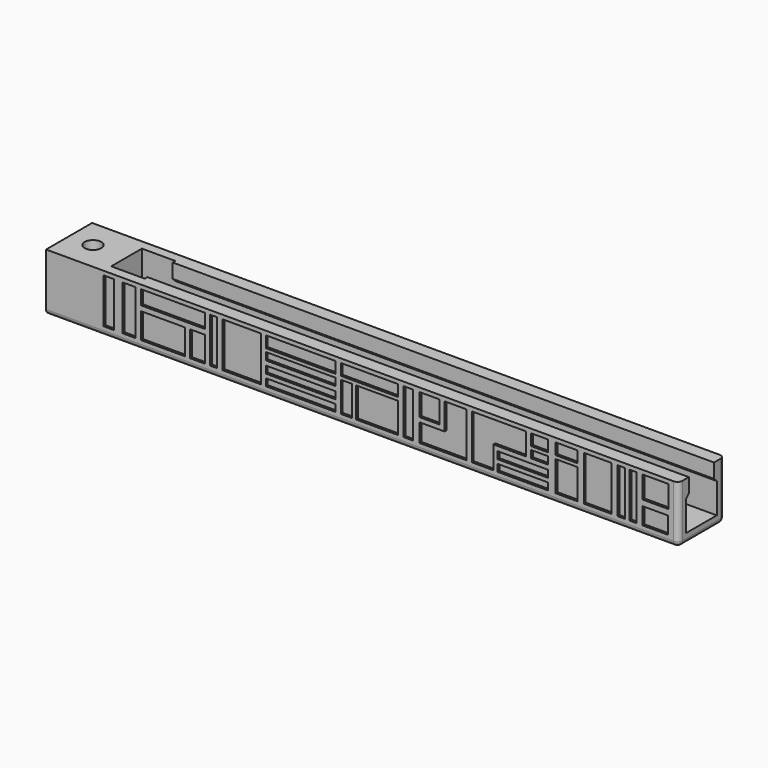
from build123d import *

# Parameters (mm, degrees)
F0_W      = 132
F0_H      = 12
F1_DEPTH  = 12
F3_DEPTH  = 120
F4_R      = 1
F5_R      = 1
F6_R      = 1.75
F7_DEPTH  = 25
F8_R      = 3.5
F9_DEPTH  = 3
F10_W     = 7
F10_H     = 8
F11_DEPTH = 25
F12_W     = 9.175333
F12_H     = 5.323609
F12_W_2   = 13.308094
F12_H_2   = 2.983174
F12_W_3   = 3.120669
F12_W_4   = 1.451817
F12_H_3   = 9.370118
F12_W_5   = 8.063871
F12_W_6   = 14.531644
F12_H_4   = 1.478815
F12_H_5   = 1.495601
F12_H_6   = 1.544423
F12_H_7   = 2.371952
F12_W_7   = 2.333373
F12_H_8   = 6.294652
F12_W_8   = 11.941966
F12_W_9   = 8.773454
F12_W_10  = 1.969859
F12_W_11  = 4.195839
F12_H_9   = 4.619889
F12_W_12  = 4.582874
F12_H_10  = 5.560525
F12_W_13  = 6.808862
F12_W_14  = 10.506786
F12_W_15  = 3.538512
F12_W_16  = 4.628397
F12_W_17  = 5.79112
F12_W_18  = 1.591668
F12_W_19  = 1.460537
F12_W_20  = 5.439826
F12_W_21  = 5.357049
F12_H_11  = 3.546575
F12_W_22  = 2.669994
F12_W_23  = 2.201648
F13_DEPTH = 0.5
F14_W     = 2.201648
F14_H     = 9.370118
F14_W_2   = 2.669994
F14_W_3   = 13.308094
F14_H_2   = 2.983174
F14_W_4   = 9.175333
F14_H_3   = 5.323609
F14_W_5   = 3.120669
F14_W_6   = 1.451817
F14_W_7   = 8.063871
F14_W_8   = 14.531644
F14_H_4   = 2.371952
F14_H_5   = 1.544423
F14_H_6   = 1.495601
F14_H_7   = 1.478815
F14_W_9   = 2.333373
F14_H_8   = 6.294652
F14_W_10  = 11.941966
F14_W_11  = 8.773454
F14_W_12  = 1.969859
F14_W_13  = 4.195839
F14_H_9   = 4.619889
F14_W_14  = 3.538512
F14_W_15  = 10.506786
F14_W_16  = 4.628397
F14_W_17  = 5.79112
F14_W_18  = 1.591668
F14_W_19  = 1.460537
F14_W_20  = 5.439826
F14_W_21  = 5.357049
F14_H_10  = 3.546575
F15_DEPTH = 0.5


with BuildPart() as f1:
    # F0 (on Top) → F1 (new body)
    with BuildSketch(Plane.XY):
        with Locations((66, 6)):
            Rectangle(F0_W, F0_H)
    extrude(amount=F1_DEPTH)

    # F2 (on face) → F3 (cut)
    with BuildSketch(Plane.YZ.offset(132)):
        Polygon((9.3, 12), (2.7, 12), (2.7, 9), (2, 8.3), (2, 2), (6, 2), (10, 2), (10, 8.3), (9.3, 9), align=None)
    extrude(amount=-F3_DEPTH, mode=Mode.SUBTRACT)

    # F4
    f4_edges = [f1.edges().sort_by_distance(p)[0] for p in [
        (66, 12, 0),
        (66, 0, 0),
    ]]
    fillet(f4_edges, radius=F4_R)

    # F5
    f5_edges = [f1.edges().sort_by_distance(p)[0] for p in [
        (132, 12, 6.5),
    ]]
    fillet(f5_edges, radius=F5_R)

    # F6 (on face) → F7 (cut)
    with BuildSketch(Plane(origin=(0, 0, 0), x_dir=(1, 0, 0), z_dir=(0, 0, -1))):
        with Locations((5, -6)):
            Circle(F6_R)
    extrude(amount=-F7_DEPTH, mode=Mode.SUBTRACT)

    # F8 (on face) → F9 (cut)
    with BuildSketch(Plane(origin=(0, 0, 0), x_dir=(1, 0, 0), z_dir=(0, 0, -1))):
        with Locations((5, -6)):
            Circle(F8_R)
    extrude(amount=-F9_DEPTH, mode=Mode.SUBTRACT)

    # F10 (on face) → F11 (cut)
    with BuildSketch(Plane.XY.offset(2)):
        with Locations((15.5, 6)):
            Rectangle(F10_W, F10_H)
    extrude(amount=F11_DEPTH, mode=Mode.SUBTRACT)

    # F12 (on face) → F13 (cut)
    with BuildSketch(Plane(origin=(0, 12, 0), x_dir=(-1, 0, 0), z_dir=(0, 1, 0))):
        with Locations((-24.442204, 4.44904)):
            Rectangle(F12_W, F12_H)
        with Locations((-26.508585, 9.665767)):
            Rectangle(F12_W_2, F12_H_2)
        with Locations((-31.602297, 4.44904)):
            Rectangle(F12_W_3, F12_H)
        with Locations((-34.933498, 6.472295)):
            Rectangle(F12_W_4, F12_H_3)
        with Locations((-40.861638, 6.472295)):
            Rectangle(F12_W_5, F12_H_3)
        with Locations((-53.124726, 2.526644)):
            Rectangle(F12_W_6, F12_H_4)
        with Locations((-53.124726, 4.849028)):
            Rectangle(F12_W_6, F12_H_5)
        with Locations((-53.124726, 7.309677)):
            Rectangle(F12_W_6, F12_H_6)
        with Locations((-53.124726, 9.971378)):
            Rectangle(F12_W_6, F12_H_7)
        with Locations((-62.694536, 4.934562)):
            Rectangle(F12_W_7, F12_H_8)
        with Locations((-67.498832, 9.971378)):
            Rectangle(F12_W_8, F12_H_7)
        with Locations((-69.083088, 4.934562)):
            Rectangle(F12_W_9, F12_H_8)
        with Locations((-75.638567, 6.472295)):
            Rectangle(F12_W_10, F12_H_3)
        with Locations((-80.074594, 8.847409)):
            Rectangle(F12_W_11, F12_H_9)
        Polygon((-77.976675, 1.787236), (-77.976675, 5.596829), (-83.202721, 5.596829), (-87.785595, 5.596829), (-87.785595, 1.787236), align=None)
        with Locations((-85.494158, 8.377091)):
            Rectangle(F12_W_12, F12_H_10)
        Polygon((-93.376272, 1.787236), (-88.865274, 1.787236), (-88.865274, 11.157354), (-93.376272, 11.157354), (-93.376272, 6.537465), align=None)
        with Locations((-96.780703, 8.847409)):
            Rectangle(F12_W_13, F12_H_9)
        with Locations((-99.499238, 2.526644)):
            Rectangle(F12_W_14, F12_H_4)
        with Locations((-99.499238, 4.849028)):
            Rectangle(F12_W_14, F12_H_5)
        with Locations((-102.983375, 7.309677)):
            Rectangle(F12_W_15, F12_H_6)
        with Locations((-102.983375, 9.971378)):
            Rectangle(F12_W_15, F12_H_7)
        with Locations((-108.629514, 4.934562)):
            Rectangle(F12_W_16, F12_H_8)
        with Locations((-115.149227, 6.472295)):
            Rectangle(F12_W_17, F12_H_3)
        with Locations((-108.629514, 9.971378)):
            Rectangle(F12_W_16, F12_H_7)
        with Locations((-120.072008, 6.472295)):
            Rectangle(F12_W_18, F12_H_3)
        with Locations((-122.568772, 6.472295)):
            Rectangle(F12_W_19, F12_H_3)
        with Locations((-127.210063, 8.847409)):
            Rectangle(F12_W_20, F12_H_9)
        with Locations((-127.168674, 3.560523)):
            Rectangle(F12_W_21, F12_H_11)
        with Locations((-17.296391, 6.472295)):
            Rectangle(F12_W_22, F12_H_3)
        with Locations((-13.060459, 6.472295)):
            Rectangle(F12_W_23, F12_H_3)
    extrude(amount=-F13_DEPTH, mode=Mode.SUBTRACT)

    # F14 (on face) → F15 (cut)
    with BuildSketch(Plane.XZ):
        with Locations((13.060459, 6.472295)):
            Rectangle(F14_W, F14_H)
        with Locations((17.296391, 6.472295)):
            Rectangle(F14_W_2, F14_H)
        with Locations((26.508585, 9.665767)):
            Rectangle(F14_W_3, F14_H_2)
        with Locations((24.442204, 4.44904)):
            Rectangle(F14_W_4, F14_H_3)
        with Locations((31.602297, 4.44904)):
            Rectangle(F14_W_5, F14_H_3)
        with Locations((34.933498, 6.472295)):
            Rectangle(F14_W_6, F14_H)
        with Locations((40.861638, 6.472295)):
            Rectangle(F14_W_7, F14_H)
        with Locations((53.124726, 9.971378)):
            Rectangle(F14_W_8, F14_H_4)
        with Locations((53.124726, 7.309677)):
            Rectangle(F14_W_8, F14_H_5)
        with Locations((53.124726, 4.849028)):
            Rectangle(F14_W_8, F14_H_6)
        with Locations((53.124726, 2.526644)):
            Rectangle(F14_W_8, F14_H_7)
        with Locations((62.694536, 4.934562)):
            Rectangle(F14_W_9, F14_H_8)
        with Locations((67.498832, 9.971378)):
            Rectangle(F14_W_10, F14_H_4)
        with Locations((69.083088, 4.934562)):
            Rectangle(F14_W_11, F14_H_8)
        with Locations((75.638567, 6.472295)):
            Rectangle(F14_W_12, F14_H)
        with Locations((80.074594, 8.847409)):
            Rectangle(F14_W_13, F14_H_9)
        Polygon((83.202721, 5.596829), (77.976675, 5.596829), (77.976675, 1.787236), (87.785595, 1.787236), (87.785595, 11.157354), (83.202721, 11.157354), align=None)
        Polygon((93.376272, 1.787236), (93.376272, 6.537465), (100.185134, 6.537465), (100.185134, 11.157354), (88.865274, 11.157354), (88.865274, 1.787236), align=None)
        with Locations((102.983375, 9.971378)):
            Rectangle(F14_W_14, F14_H_4)
        with Locations((102.983375, 7.309677)):
            Rectangle(F14_W_14, F14_H_5)
        with Locations((99.499238, 4.849028)):
            Rectangle(F14_W_15, F14_H_6)
        with Locations((99.499238, 2.526644)):
            Rectangle(F14_W_15, F14_H_7)
        with Locations((108.629514, 4.934562)):
            Rectangle(F14_W_16, F14_H_8)
        with Locations((108.629514, 9.971378)):
            Rectangle(F14_W_16, F14_H_4)
        with Locations((115.149227, 6.472295)):
            Rectangle(F14_W_17, F14_H)
        with Locations((120.072008, 6.472295)):
            Rectangle(F14_W_18, F14_H)
        with Locations((122.568772, 6.472295)):
            Rectangle(F14_W_19, F14_H)
        with Locations((127.210063, 8.847409)):
            Rectangle(F14_W_20, F14_H_9)
        with Locations((127.168674, 3.560523)):
            Rectangle(F14_W_21, F14_H_10)
    extrude(amount=-F15_DEPTH, mode=Mode.SUBTRACT)


solid = f1.part
